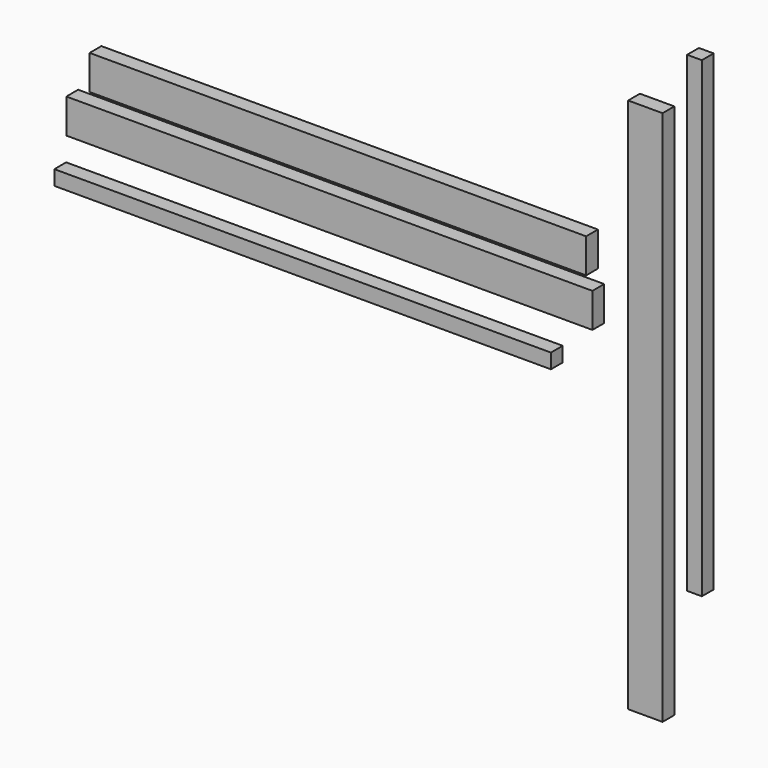
from build123d import *

# Parameters (mm, degrees)
F0_W     = 1282.7
F0_H     = 88.9
F3_DEPTH = 38.1
F1_W     = 1358.9
F1_H     = 88.9
F4_DEPTH = 38.1
F2_W     = 88.9
F2_H     = 1384.3
F5_DEPTH = 38.1
F6_W     = 1282.7
F6_H     = 38.1
F8_DEPTH = 38.1
F7_W     = 38.1
F7_H     = 1219.2
F9_DEPTH = 38.1


with BuildPart() as f3:
    # F0 (on Front) → F3 (new body)
    with BuildSketch(Plane.XZ):
        with Locations((-170.252413, 118.7431)):
            Rectangle(F0_W, F0_H)
    extrude(amount=F3_DEPTH)


with BuildPart() as f4:
    # F1 (on Front) → F4 (new body)
    with BuildSketch(Plane.XZ):
        with Locations((-192.198903, 0)):
            Rectangle(F1_W, F1_H)
    extrude(amount=F4_DEPTH)


with BuildPart() as f5:
    # F2 (on Front) → F5 (new body)
    with BuildSketch(Plane.XZ):
        with Locations((624.010921, -184.76284)):
            Rectangle(F2_W, F2_H)
    extrude(amount=F5_DEPTH)


with BuildPart() as f8:
    # F6 (on Front) → F8 (new body)
    with BuildSketch(Plane.XZ):
        with Locations((-261.276394, -149.82342)):
            Rectangle(F6_W, F6_H)
    extrude(amount=F8_DEPTH)


with BuildPart() as f9:
    # F7 (on Front) → F9 (new body)
    with BuildSketch(Plane.XZ):
        with Locations((750.920475, 51.292985)):
            Rectangle(F7_W, F7_H)
    extrude(amount=F9_DEPTH)


solid = Compound([f3.part, f4.part, f5.part, f8.part, f9.part])
